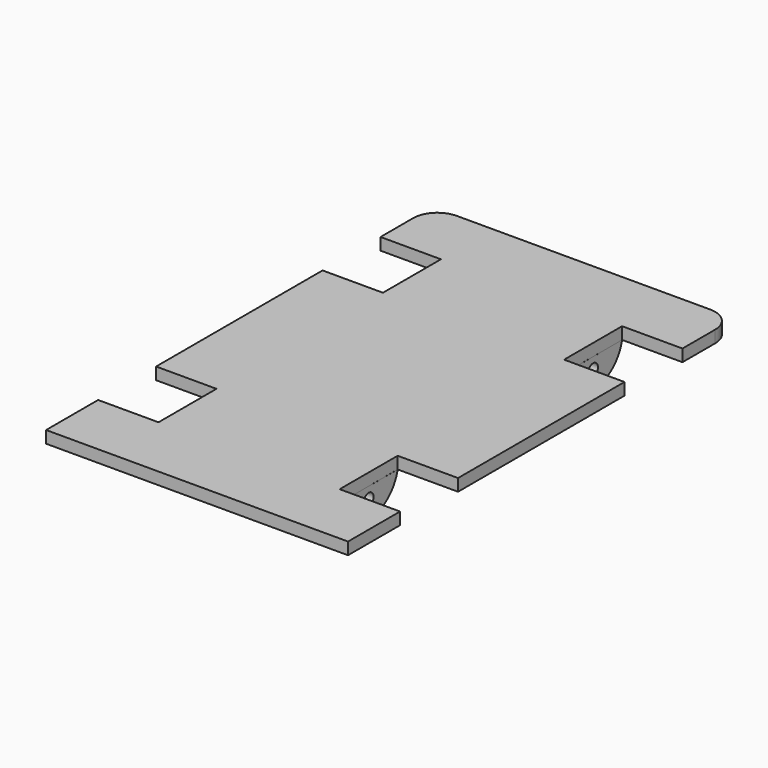
from build123d import *

# Parameters (mm, degrees)
F1_DEPTH = 0.5
F2_R     = 0.503818
F3_DEPTH = 7.5


with BuildPart() as f1:
    # F0 (on Top) → F1 (new body, symmetric)
    with BuildSketch(Plane.XY):
        with BuildLine():
            ThreePointArc((12.5, 18), (11.914214, 19.414214), (10.5, 20))
            Line((10.5, 20), (-10.5, 20))
            ThreePointArc((-10.5, 20), (-11.914214, 19.414214), (-12.5, 18))
            Line((-12.5, 18), (-12.5, 14.614067))
            Line((-12.5, 14.614067), (-7.5, 14.614067))
            Line((-7.5, 14.614067), (-7.5, 8.614067))
            Line((-7.5, 8.614067), (-12.5, 8.614067))
            Line((-12.5, 8.614067), (-12.5, -8.614067))
            Line((-12.5, -8.614067), (-7.5, -8.614067))
            Line((-7.5, -8.614067), (-7.5, -14.614067))
            Line((-7.5, -14.614067), (-12.5, -14.614067))
            Line((-12.5, -14.614067), (-12.5, -20))
            Line((-12.5, -20), (12.5, -20))
            Line((12.5, -20), (12.5, -14.614067))
            Line((12.5, -14.614067), (7.5, -14.614067))
            Line((7.5, -14.614067), (7.5, -8.614067))
            Line((7.5, -8.614067), (12.5, -8.614067))
            Line((12.5, -8.614067), (12.5, 8.614067))
            Line((12.5, 8.614067), (7.5, 8.614067))
            Line((7.5, 8.614067), (7.5, 14.614067))
            Line((7.5, 14.614067), (12.5, 14.614067))
            Line((12.5, 14.614067), (12.5, 18))
        make_face()
    extrude(amount=F1_DEPTH, both=True)


with BuildPart() as f3:
    # F2 (on Right) → F3 (new body, symmetric)
    with BuildSketch(Plane.YZ):
        with BuildLine():
            Line((-8.61149, -0.504214), (-14.616118, -0.498513))
            ThreePointArc((-14.616118, -0.498513), (-11.616105, -2.925592), (-8.61149, -0.504214))
        make_face()
        with Locations((-11.61319, -1.481043)):
            Circle(F2_R, mode=Mode.SUBTRACT)
        with BuildLine():
            ThreePointArc((8.61149, -0.504214), (11.616105, -2.925592), (14.616118, -0.498513))
            Line((14.616118, -0.498513), (8.61149, -0.504214))
        make_face()
        with Locations((11.61319, -1.481043)):
            Circle(F2_R, mode=Mode.SUBTRACT)
    extrude(amount=F3_DEPTH, both=True)


solid = Compound([f1.part, f3.part])
